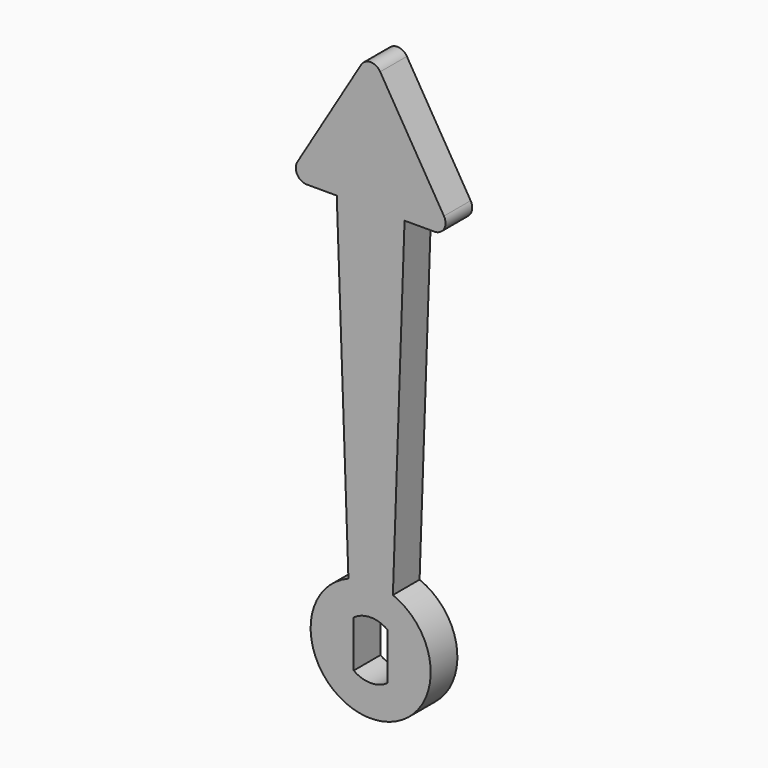
from build123d import *

# Parameters (mm, degrees)
F0_R     = 5.4
F1_DEPTH = 1.5
F3_DEPTH = 3
F5_DEPTH = 3
F6_R     = 1


with BuildPart() as f1:
    # F0 (on Front) → F1 (new body, symmetric)
    with BuildSketch(Plane.XZ):
        Circle(F0_R)
        with BuildLine():
            ThreePointArc((1.525, 2.1057955741), (2.3157072354, 1.1821590418), (2.6, 0))
            ThreePointArc((2.6, 0), (2.3157072354, -1.1821590418), (1.525, -2.1057955741))
            ThreePointArc((1.525, -2.1057955741), (0, -2.6), (-1.525, -2.1057955741))
            ThreePointArc((-1.525, -2.1057955741), (-2.6, 0), (-1.525, 2.1057955741))
            ThreePointArc((-1.525, 2.1057955741), (0, 2.6), (1.525, 2.1057955741))
        make_face(mode=Mode.SUBTRACT)
        with BuildLine():
            Line((-1.525, -2.1057955741), (-1.525, 2.1057955741))
            ThreePointArc((-1.525, 2.1057955741), (-2.6, 0), (-1.525, -2.1057955741))
        make_face()
        with BuildLine():
            ThreePointArc((1.525, -2.1057955741), (2.3157072354, -1.1821590418), (2.6, 0))
            ThreePointArc((2.6, 0), (2.3157072354, 1.1821590418), (1.525, 2.1057955741))
            Line((1.525, 2.1057955741), (1.525, -2.1057955741))
        make_face()
    extrude(amount=F1_DEPTH, both=True)

    # F2 (on face) → F3 (join, through all)
    with BuildSketch(Plane.XZ.offset(1.5)):
        with BuildLine():
            ThreePointArc((-2, 5.0159744816), (0, 5.4), (2, 5.0159744816))
            Line((2, 5.0159744816), (3.0470652436, 35))
            Line((3.0470652436, 35), (0, 35))
            Line((0, 35), (-3.0470652436, 35))
            Line((-3.0470652436, 35), (-2, 5.0159744816))
        make_face()
    extrude(amount=-F3_DEPTH)

    # F4 (on face) → F5 (join, through all)
    with BuildSketch(Plane.XZ.offset(1.5)):
        Polygon((0, 47.5), (-7.5, 35), (-3.0470652436, 35), (3.0470652436, 35), (7.5, 35), align=None)
    extrude(amount=-F5_DEPTH)

    # F6
    f6_edges = [f1.edges().sort_by_distance(p)[0] for p in [
        (7.5, 0, 35),
        (-7.5, 0, 35),
        (0, 0, 47.5),
    ]]
    fillet(f6_edges, radius=F6_R)


solid = f1.part
